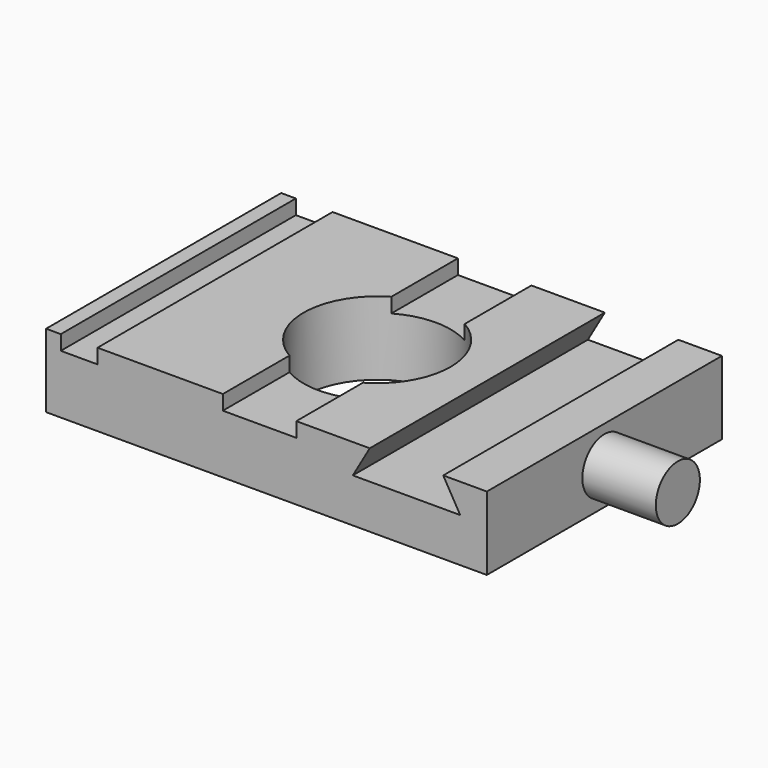
from build123d import *

# Parameters (mm, degrees)
F0_W     = 76.2
F0_H     = 50.8
F0_R     = 12.7
F1_DEPTH = 12.7
F2_W     = 6.35
F2_H     = 50.8
F3_DEPTH = 2.54
F5_DEPTH = 50.8
F6_R     = 4.7625
F7_DEPTH = 12.7


with BuildPart() as f1:
    # F0 (on Top) → F1 (new body)
    with BuildSketch(Plane.XY):
        with Locations((1.190625, 0)):
            Rectangle(F0_W, F0_H)
        Circle(F0_R, mode=Mode.SUBTRACT)
    extrude(amount=F1_DEPTH)

    # F2 (on face) → F3 (cut)
    with BuildSketch(Plane.XY.offset(12.7)):
        with Locations((-31.194375, 0)):
            Rectangle(F2_W, F2_H)
        with BuildLine():
            Line((-6.35, -10.9985226281), (-6.35, -25.4))
            Line((-6.35, -25.4), (6.35, -25.4))
            Line((6.35, -25.4), (6.35, -10.9985226281))
            ThreePointArc((6.35, -10.9985226281), (0, -12.7), (-6.35, -10.9985226281))
        make_face()
        with BuildLine():
            Line((6.35, 25.4), (-6.35, 25.4))
            Line((-6.35, 25.4), (-6.35, 10.9985226281))
            ThreePointArc((-6.35, 10.9985226281), (0, 12.7), (6.35, 10.9985226281))
            Line((6.35, 10.9985226281), (6.35, 25.4))
        make_face()
    extrude(amount=-F3_DEPTH, mode=Mode.SUBTRACT)

    # F4 (on face) → F5 (cut)
    with BuildSketch(Plane.XZ.offset(25.4)):
        Polygon((31.75, 12.7), (19.05, 12.7), (16.1170606325, 7.62), (34.6829393675, 7.62), align=None)
    extrude(amount=-F5_DEPTH, mode=Mode.SUBTRACT)

    # F6 (on face) → F7 (join)
    with BuildSketch(Plane.YZ.offset(39.290625)):
        with Locations((0, 6.35)):
            Circle(F6_R)
    extrude(amount=F7_DEPTH)


solid = f1.part
